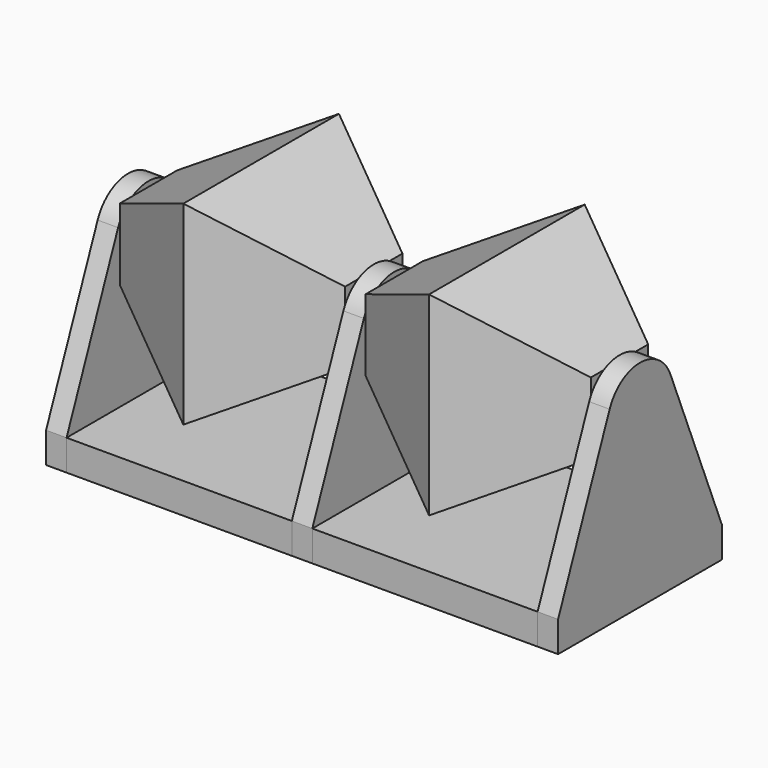
from build123d import *

# Parameters (mm, degrees)
F3_DEPTH  = 47.5
F5_DEPTH  = 55
F6_W      = 100
F6_H      = 15
F7_DEPTH  = 10
F9_DEPTH  = 5
F10_W     = 100
F10_H     = 15
F11_DEPTH = 110


with BuildPart() as f3:
    # F2 (on Front) → F3 (new body, symmetric)
    with BuildSketch(Plane.XZ):
        Polygon((0, 47.5), (-55, 17.5), (-55, -17.5), (0, -47.5), (55, -17.5), (55, 17.5), align=None)
    extrude(amount=F3_DEPTH, both=True)

    # F4 (on Top) → F5 (cut, symmetric)
    with BuildSketch(Plane.XY):
        Polygon((-55, 17.5), (0, 47.5), (-55, 47.5), align=None)
        Polygon((55, 47.5), (0, 47.5), (55, 17.5), align=None)
        Polygon((55, -47.5), (55, -17.5), (0, -47.5), align=None)
        Polygon((0, -47.5), (-55, -17.5), (-55, -47.5), align=None)
    extrude(amount=F5_DEPTH, both=True, mode=Mode.SUBTRACT)


with BuildPart() as f7:
    # F6 (on face) → F7 (new body)
    with BuildSketch(Plane(origin=(-55, 0, 0), x_dir=(0, -1, 0), z_dir=(-1, 0, 0))):
        with BuildLine():
            Line((-18.5314059074, 7.522432791), (-50, -70))
            Line((-50, -70), (50, -70))
            Line((50, -70), (18.5314059074, 7.522432791))
            ThreePointArc((18.5314059074, 7.522432791), (0, 20), (-18.5314059074, 7.522432791))
        make_face()
        with Locations((0, -77.5)):
            Rectangle(F6_W, F6_H)
    extrude(amount=F7_DEPTH)


with BuildPart() as f9:
    # F8 (on face) → F9 (new body)
    with BuildSketch(Plane.YZ.offset(55)):
        with BuildLine():
            Line((-50, -85), (50, -85))
            Line((50, -85), (50, -70))
            Line((50, -70), (18.5314059074, 7.522432791))
            ThreePointArc((18.5314059074, 7.522432791), (0, 20), (-18.5314059074, 7.522432791))
            Line((-18.5314059074, 7.522432791), (-50, -70))
            Line((-50, -70), (-50, -85))
        make_face()
    extrude(amount=F9_DEPTH)

    # F13: F9 across face


with BuildPart() as f11:
    # F10 (on face) → F11 (new body, through all)
    with BuildSketch(Plane.YZ.offset(-55)):
        with Locations((0, -77.5)):
            Rectangle(F10_W, F10_H)
    extrude(amount=F11_DEPTH)


with BuildPart() as f12_1:
    # F12: instance of F3
    add(f3.part.mirror(Plane(origin=(60, 0, -43.3010786838), x_dir=(0, 1, 0), z_dir=(1, 0, 0))))


with BuildPart() as f12_2:
    # F12: instance of F7
    add(f7.part.mirror(Plane(origin=(60, 0, -43.3010786838), x_dir=(0, 1, 0), z_dir=(1, 0, 0))))


with BuildPart() as f12_3:
    # F12: instance of F11
    add(f11.part.mirror(Plane(origin=(60, 0, -43.3010786838), x_dir=(0, 1, 0), z_dir=(1, 0, 0))))


with BuildPart() as f9_1:
    add(f9.part)
    add(f9.part.mirror(Plane(origin=(60, 0, -43.3010786838), x_dir=(0, 1, 0), z_dir=(1, 0, 0))))


solid = Compound([f3.part, f7.part, f11.part, f12_1.part, f12_2.part, f12_3.part, f9_1.part])
